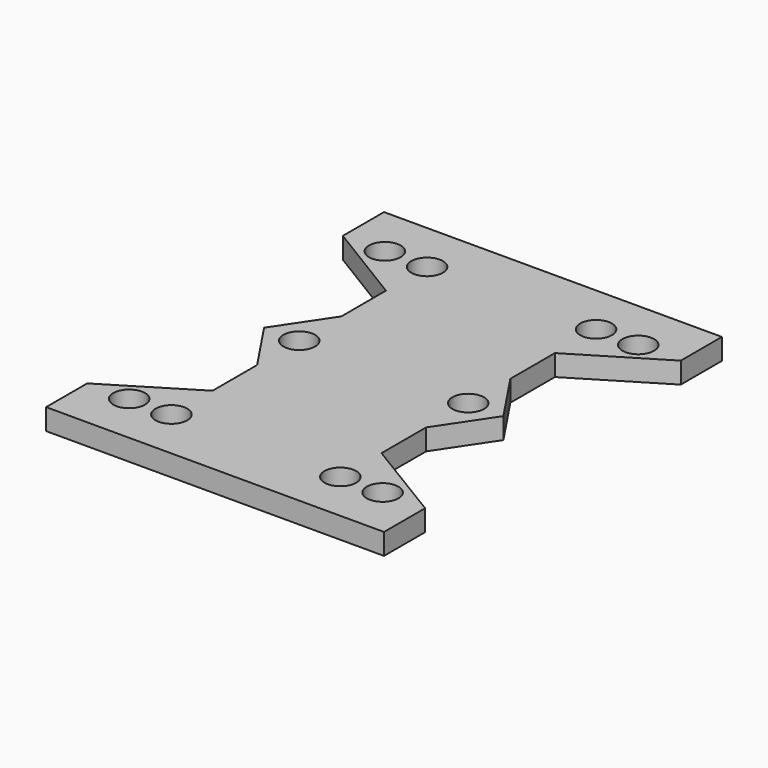
from build123d import *

# Parameters (mm, degrees)
F0_R     = 4.7625
F1_DEPTH = 6.35


with BuildPart() as f1:
    # F0 (on Top) → F1 (new body)
    with BuildSketch(Plane.XY):
        Polygon((51.468572, 59.839446), (-50.131428, 59.839446), (-50.131428, 44.38021), (-24.814999, 28.920973), (-24.814999, 12.168384), (-35.391588, -3.660554), (-24.814999, -19.489491), (-24.814999, -36.24208), (-50.131428, -51.701317), (-50.131428, -67.160554), (51.468572, -67.160554), (51.468572, -51.701317), (25.983593, -36.24208), (25.983593, -19.489491), (36.560183, -3.660554), (25.983593, 12.168384), (25.983593, 28.920973), (51.468572, 44.38021), align=None)
        with Locations((-37.514999, -51.701317)):
            Circle(F0_R, mode=Mode.SUBTRACT)
        with Locations((-24.814999, -51.701317)):
            Circle(F0_R, mode=Mode.SUBTRACT)
        with Locations((25.983593, -51.701317)):
            Circle(F0_R, mode=Mode.SUBTRACT)
        with Locations((38.683593, -51.701317)):
            Circle(F0_R, mode=Mode.SUBTRACT)
        with Locations((-24.814999, -3.660554)):
            Circle(F0_R, mode=Mode.SUBTRACT)
        with Locations((-37.514999, 44.38021)):
            Circle(F0_R, mode=Mode.SUBTRACT)
        with Locations((-24.814999, 44.38021)):
            Circle(F0_R, mode=Mode.SUBTRACT)
        with Locations((25.983593, -3.660554)):
            Circle(F0_R, mode=Mode.SUBTRACT)
        with Locations((25.983593, 44.38021)):
            Circle(F0_R, mode=Mode.SUBTRACT)
        with Locations((38.683593, 44.38021)):
            Circle(F0_R, mode=Mode.SUBTRACT)
    extrude(amount=F1_DEPTH)


solid = f1.part
